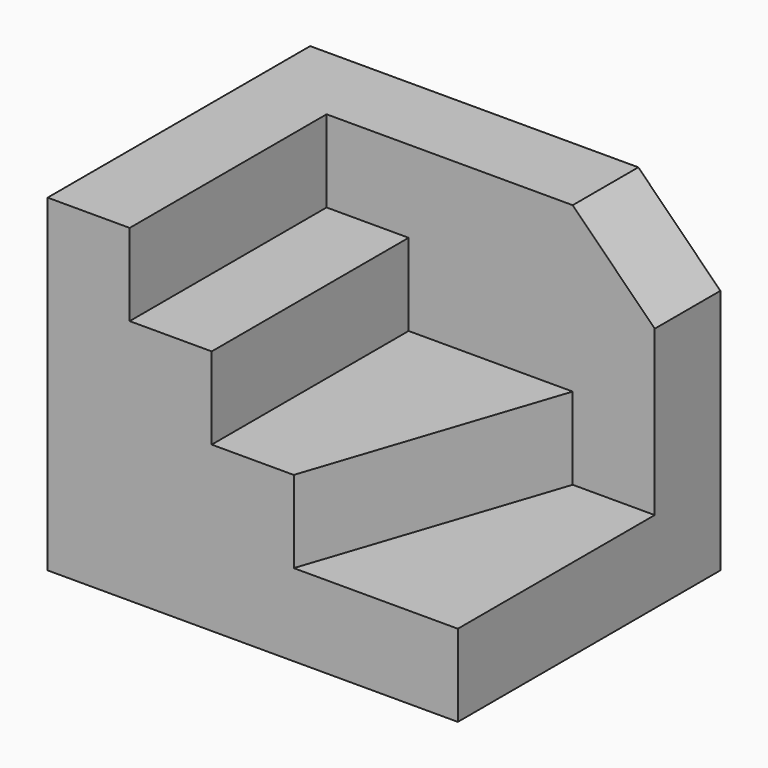
from build123d import *

# Parameters (mm, degrees)
F1_DEPTH = 40
F0_W     = 10
F0_H     = 30
F2_DEPTH = 30
F3_DEPTH = 20
F4_DEPTH = 10
F5_SIZE  = 10


with BuildPart() as f1:
    # F0 (on Top) → F1 (new body)
    with BuildSketch(Plane.XY):
        Polygon((0, 40), (0, 0), (10, 0), (10, 30), (20, 30), (40, 30), (50, 30), (50, 40), align=None)
    extrude(amount=F1_DEPTH)

    # F0 (on Top) → F2 (join)
    with BuildSketch(Plane.XY):
        with Locations((15, 15)):
            Rectangle(F0_W, F0_H)
    extrude(amount=F2_DEPTH)

    # F0 (on Top) → F3 (join)
    with BuildSketch(Plane.XY):
        Polygon((20, 30), (20, 0), (30, 0), (40, 30), align=None)
    extrude(amount=F3_DEPTH)

    # F0 (on Top) → F4 (join)
    with BuildSketch(Plane.XY):
        Polygon((40, 30), (30, 0), (50, 0), (50, 30), align=None)
    extrude(amount=F4_DEPTH)

    # F5
    f5_edges = [f1.edges().sort_by_distance(p)[0] for p in [
        (50, 35, 40),
    ]]
    chamfer(f5_edges, length=F5_SIZE)


solid = f1.part
